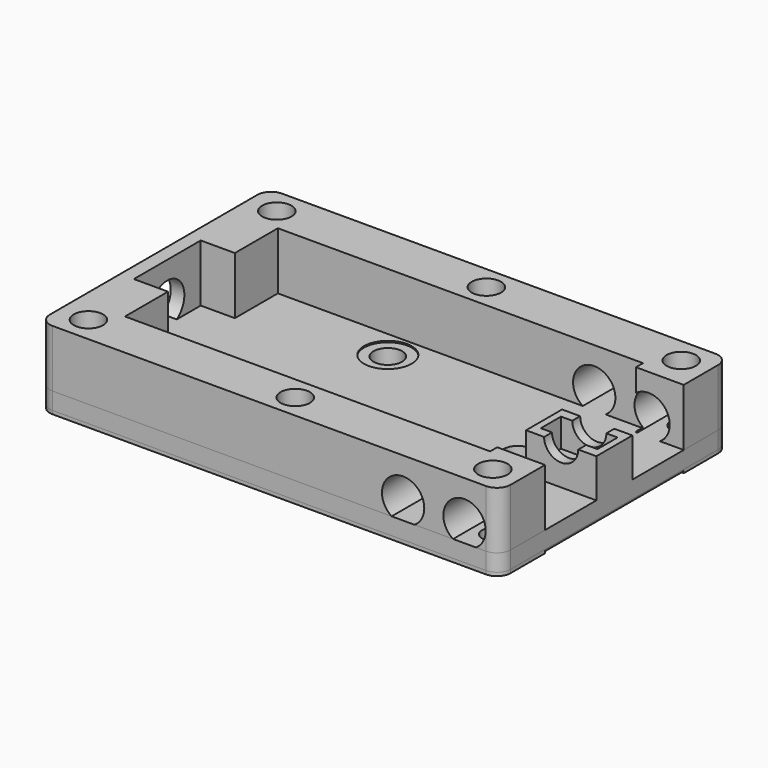
from build123d import *

# Parameters (mm, degrees)
PAD_DEPTH       = 11.4
SKETCH001_W     = 53.5
SKETCH001_H     = 28
POCKET_DEPTH    = 11.401
SKETCH002_W     = 15.66
SKETCH002_H     = 25.4
POCKET001_DEPTH = 11.401
SKETCH003_W     = 9.586
SKETCH003_H     = 12.25
POCKET002_DEPTH = 11.401
SKETCH004_R     = 3.125
POCKET003_DEPTH = 2.001
SKETCH005_R     = 2.15
POCKET004_DEPTH = 11.401
SKETCH006_R     = 3.1
POCKET005_DEPTH = 42.001
PAD001_DEPTH    = 3
SKETCH008_R     = 1.6
POCKET006_DEPTH = 11.401
SKETCH009_R     = 2.1
POCKET007_DEPTH = 3.001
SKETCH010_R     = 3.5
POCKET008_DEPTH = 0.2
SKETCH011_R     = 2.1
POCKET009_DEPTH = 3.001
SKETCH012_W     = 10.3
SKETCH012_H     = 6.6
PAD002_DEPTH    = 5.7
SKETCH013_W     = 8.3
SKETCH013_H     = 3.7
POCKET010_DEPTH = 4.15
SKETCH014_R     = 2.5
POCKET011_DEPTH = 24.301
SKETCH015_R     = 2.5
POCKET012_DEPTH = 1
CHAMFER_SIZE    = 0.5
FILLET_R        = 0.5


with BuildPart() as paddleframebody:
    # Sketch → Pad (new body)
    with BuildSketch(Plane.XY):
        with BuildLine():
            Line((-2, 21), (-65.5, 21))
            ThreePointArc((-65.5, 21), (-66.914214, 20.414214), (-67.5, 19))
            Line((-67.5, 19), (-67.5, -19))
            ThreePointArc((-67.5, -19), (-66.914214, -20.414214), (-65.5, -21))
            Line((-65.5, -21), (-2, -21))
            ThreePointArc((-2, -21), (-0.585786, -20.414214), (0, -19))
            Line((0, -19), (0, 19))
            ThreePointArc((0, 19), (-0.585786, 20.414214), (-2, 21))
        make_face()
    extrude(amount=PAD_DEPTH)

    # Sketch001 (on Face10 of Pad) → Pocket (cut, through all)
    with BuildSketch(Plane.XY.offset(11.4)):
        with Locations((-33.75, 0)):
            Rectangle(SKETCH001_W, SKETCH001_H)
    extrude(amount=-POCKET_DEPTH, mode=Mode.SUBTRACT)

    # Sketch002 (on Face5 of Pocket) → Pocket001 (cut, through all)
    with BuildSketch(Plane.XY.offset(11.4)):
        with Locations((-1.568, 0)):
            Rectangle(SKETCH002_W, SKETCH002_H)
    extrude(amount=-POCKET001_DEPTH, mode=Mode.SUBTRACT)

    # Sketch003 (on Face5 of Pocket001) → Pocket002 (cut, through all)
    with BuildSketch(Plane.XY.offset(11.4)):
        with Locations((-60.707, 0)):
            Rectangle(SKETCH003_W, SKETCH003_H)
    extrude(amount=-POCKET002_DEPTH, mode=Mode.SUBTRACT)

    # Sketch004 (on Face13 of Pocket002) → Pocket003 (cut, through all)
    with BuildSketch(Plane.YZ.offset(-65.5)):
        with Locations((0, 5.6)):
            Circle(SKETCH004_R)
    extrude(amount=-POCKET003_DEPTH, mode=Mode.SUBTRACT)

    # Sketch005 (on Face5 of Pocket003) → Pocket004 (cut, through all)
    with BuildSketch(Plane.XY.offset(11.4)):
        with Locations((-63.25, 17.25)):
            Circle(SKETCH005_R)
        with Locations((-4, 17.25)):
            Circle(SKETCH005_R)
        with Locations((-4, -17.25)):
            Circle(SKETCH005_R)
        with Locations((-63.25, -17.25)):
            Circle(SKETCH005_R)
        with Locations((-32.75, -17.5)):
            Circle(SKETCH005_R)
        with Locations((-32.75, 17.5)):
            Circle(SKETCH005_R)
    extrude(amount=-POCKET004_DEPTH, mode=Mode.SUBTRACT)

    # Sketch006 (on Face15 of Pocket004) → Pocket005 (cut, through all)
    with BuildSketch(Plane.XZ.offset(21)):
        with Locations((-5.15, 5.6)):
            Circle(SKETCH006_R)
        with Locations((-14.15, 5.6)):
            Circle(SKETCH006_R)
    extrude(amount=-POCKET005_DEPTH, mode=Mode.SUBTRACT)


with BuildPart() as paddlelidbody:
    # Sketch007 → Pad001 (new body)
    with BuildSketch(Plane.XY):
        with BuildLine():
            Line((-2, 21), (-65.5, 21))
            ThreePointArc((-65.5, 21), (-66.914214, 20.414214), (-67.5, 19))
            Line((-67.5, 19), (-67.5, -19))
            ThreePointArc((-67.5, -19), (-66.914214, -20.414214), (-65.5, -21))
            Line((-65.5, -21), (-2, -21))
            ThreePointArc((-2, -21), (-0.585786, -20.414214), (0, -19))
            Line((0, -19), (0, 19))
            ThreePointArc((0, 19), (-0.585786, 20.414214), (-2, 21))
        make_face()
    extrude(amount=PAD001_DEPTH)

    # Sketch008 (on Face5 of Pocket003) → Pocket006 (cut, through all)
    with BuildSketch(Plane.XY.offset(11.4)):
        with Locations((-63.25, 17.25)):
            Circle(SKETCH008_R)
        with Locations((-4, 17.25)):
            Circle(SKETCH008_R)
        with Locations((-4, -17.25)):
            Circle(SKETCH008_R)
        with Locations((-63.25, -17.25)):
            Circle(SKETCH008_R)
        with Locations((-32.75, -17.5)):
            Circle(SKETCH008_R)
        with Locations((-32.75, 17.5)):
            Circle(SKETCH008_R)
    extrude(amount=-POCKET006_DEPTH, mode=Mode.SUBTRACT)

    # Sketch009 (on Face5 of Pocket006) → Pocket007 (cut, through all)
    with BuildSketch(Plane.XY.offset(3)):
        with Locations((-41.15, 9.95)):
            Circle(SKETCH009_R)
        with Locations((-41.15, -9.95)):
            Circle(SKETCH009_R)
    extrude(amount=-POCKET007_DEPTH, mode=Mode.SUBTRACT)

    # Sketch010 (on Face5 of Pocket006) → Pocket008 (cut)
    with BuildSketch(Plane.XY.offset(3)):
        with Locations((-41.15, 9.95)):
            Circle(SKETCH010_R)
        with Locations((-41.15, -9.95)):
            Circle(SKETCH010_R)
    extrude(amount=-POCKET008_DEPTH, mode=Mode.SUBTRACT)

    # Sketch011 (on Face5 of Pocket008) → Pocket009 (cut, through all)
    with BuildSketch(Plane.XY.offset(3)):
        with Locations((-14.15, 0)):
            Circle(SKETCH011_R)
    extrude(amount=-POCKET009_DEPTH, mode=Mode.SUBTRACT)

    # Sketch012 (on Face5 of Pocket009) → Pad002 (join)
    with BuildSketch(Plane.XY.offset(3)):
        with Locations((-5.15, 0)):
            Rectangle(SKETCH012_W, SKETCH012_H)
    extrude(amount=PAD002_DEPTH)

    # Sketch013 (on Face28 of Pad002) → Pocket010 (cut)
    with BuildSketch(Plane.XY.offset(8.7)):
        with Locations((-5.15, 0)):
            Rectangle(SKETCH013_W, SKETCH013_H)
    extrude(amount=-POCKET010_DEPTH, mode=Mode.SUBTRACT)

    # Sketch014 (on Face22 of Pocket010) → Pocket011 (cut, through all)
    with BuildSketch(Plane.XZ.offset(3.3)):
        with Locations((-5.15, 8.7)):
            Circle(SKETCH014_R)
    extrude(amount=-POCKET011_DEPTH, mode=Mode.SUBTRACT)

    # Sketch015 (on Face20 of Pocket011) → Pocket012 (cut)
    with BuildSketch(Plane(origin=(0, 3.3, 0), x_dir=(-1, 0, 0), z_dir=(0, 1, 0))):
        with Locations((5.15, 8.7)):
            Circle(SKETCH015_R)
    extrude(amount=-POCKET012_DEPTH, mode=Mode.SUBTRACT)

    # Chamfer
    chamfer_edges = [paddlelidbody.edges().sort_by_distance(p)[0] for p in [
        (-5.6, 17.25, 0),
        (-34.35, 17.5, 0),
        (-64.85, 17.25, 0),
        (-64.85, -17.25, 0),
        (-34.35, -17.5, 0),
        (-5.6, -17.25, 0),
        (-16.25, 0, 0),
        (-43.25, 9.95, 0),
        (-43.25, -9.95, 0),
    ]]
    chamfer(chamfer_edges, length=CHAMFER_SIZE)

    # Fillet
    fillet_edges = [paddlelidbody.edges().sort_by_distance(p)[0] for p in [
        (-33.75, 21, 0),
        (-0.585786, 20.414214, 0),
        (0, 0, 0),
        (-0.585786, -20.414214, 0),
        (-33.75, -21, 0),
        (-66.914214, -20.414214, 0),
        (-67.5, 0, 0),
        (-66.914214, 20.414214, 0),
    ]]
    fillet(fillet_edges, radius=FILLET_R)


solid = Compound([paddleframebody.part, paddlelidbody.part])
